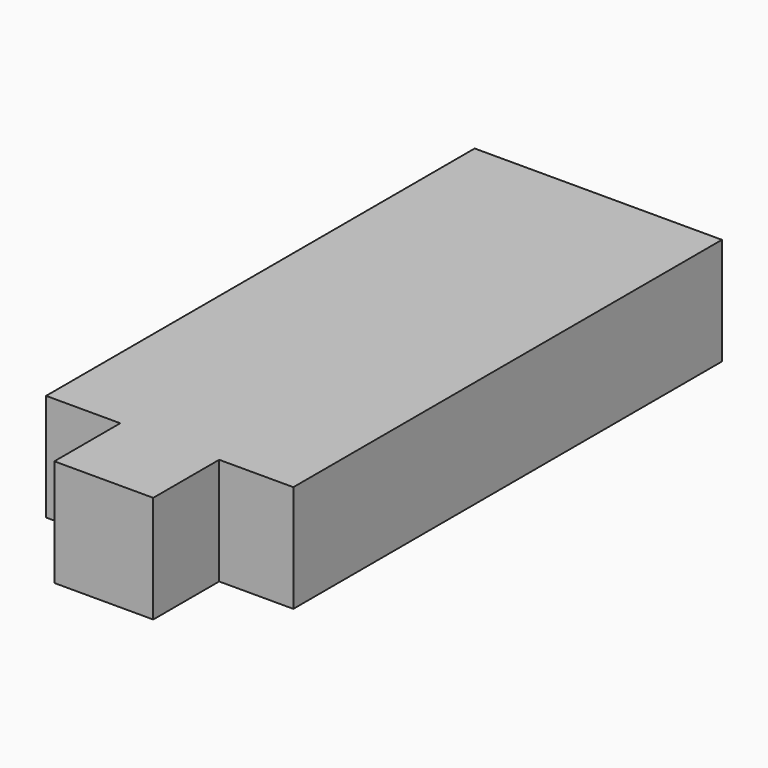
from build123d import *

# Parameters (mm, degrees)
BOX325_W     = 12
BOX325_H     = 10
BOX325_DEPTH = 13
BOX297_W     = 30
BOX297_H     = 65
BOX297_DEPTH = 13


with BuildPart() as box325:
    # Box325 → Box325 (new body)
    with BuildSketch(Plane(origin=(-85, -32, 34), x_dir=(1, 0, 0), z_dir=(0, 0, 1))):
        with Locations((6, 5)):
            Rectangle(BOX325_W, BOX325_H)
    extrude(amount=BOX325_DEPTH)


with BuildPart() as coral:
    # Box297 → Box297 (new body)
    with BuildSketch(Plane(origin=(-94, -22, 34), x_dir=(1, 0, 0), z_dir=(0, 0, 1))):
        with Locations((15, 32.5)):
            Rectangle(BOX297_W, BOX297_H)
    extrude(amount=BOX297_DEPTH)

    # Fusion197: union Box325
    add(box325.part)


solid = coral.part
